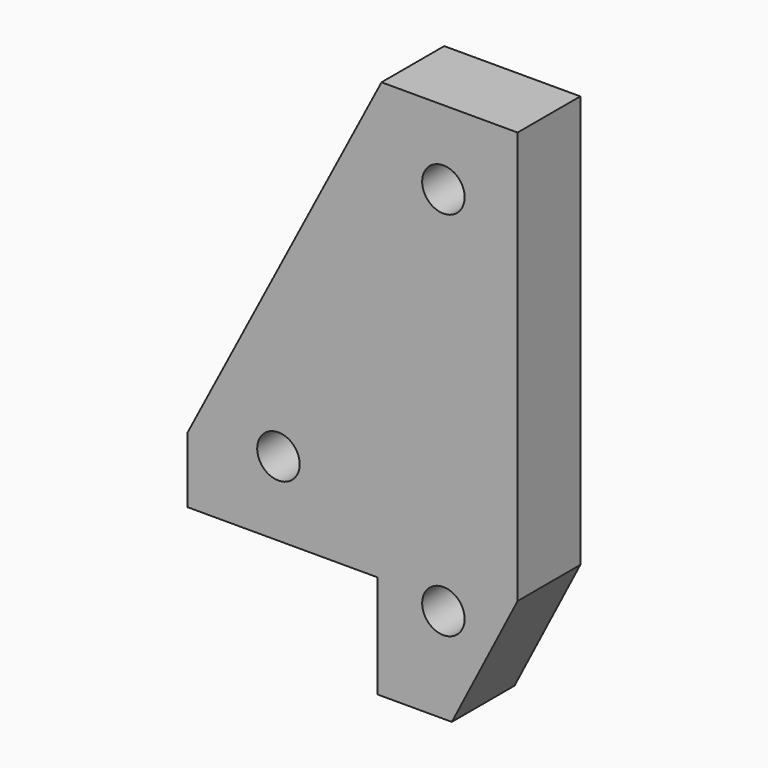
from build123d import *

# Parameters (mm, degrees)
F1_DEPTH = 19
F2_D     = 10.3
F4_D     = 10.3


with BuildPart() as f1:
    # F0 (on Front) → F1 (new body)
    with BuildSketch(Plane.XZ):
        Polygon((80, 168), (47, 168), (0, 78), (0, 62), (46, 62), (46, 37), (64.0441176471, 37), (80, 68), align=None)
        Polygon((80, 168), (47, 168), (0, 78), (0, 62), (46, 62), (46, 37), (64.0441176471, 37), (80, 68), align=None)
    extrude(amount=F1_DEPTH)

    # F2 (through all)
    with Locations(Plane(origin=(0, 0, 0), x_dir=(1, 0, 0), z_dir=(0, 1, 0))):
        with Locations((62, -150)):
            Hole(F2_D / 2)

    # F4 (through all)
    with Locations(Plane.XZ.offset(19)):
        with Locations((22, 80), (62, 60)):
            Hole(F4_D / 2)


solid = f1.part
